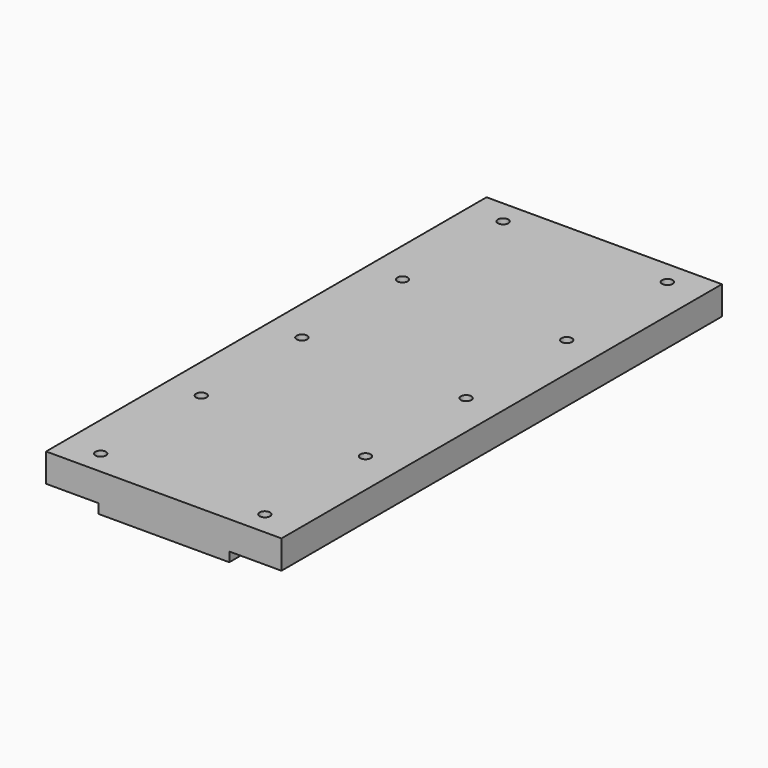
from build123d import *

# Parameters (mm, degrees)
F1_DEPTH = 580
F2_R     = 5.5
F3_DEPTH = 40.001


with BuildPart() as f1:
    # F0 (on Front) → F1 (new body)
    with BuildSketch(Plane.XZ):
        Polygon((123.124914, 24.05611), (-124.875086, 24.05611), (-124.875086, -5.94389), (-69.875086, -5.94389), (-69.875086, -15.94389), (68.124914, -15.94389), (68.124914, -5.94389), (123.124914, -5.94389), align=None)
    extrude(amount=F1_DEPTH)

    # F2 (on face) → F3 (cut, through all)
    with BuildSketch(Plane.XY.offset(24.05611)):
        with Locations((-87.375086, -25)):
            Circle(F2_R)
        with Locations((85.624914, -25)):
            Circle(F2_R)
        with Locations((-87.375086, -157.5)):
            Circle(F2_R)
        with Locations((85.624914, -157.5)):
            Circle(F2_R)
        with Locations((-87.375086, -290)):
            Circle(F2_R)
        with Locations((85.624914, -290)):
            Circle(F2_R)
        with Locations((-87.375086, -422.5)):
            Circle(F2_R)
        with Locations((85.624914, -422.5)):
            Circle(F2_R)
        with Locations((85.624914, -555)):
            Circle(F2_R)
        with Locations((-87.375086, -555)):
            Circle(F2_R)
    extrude(amount=-F3_DEPTH, mode=Mode.SUBTRACT)


solid = f1.part
